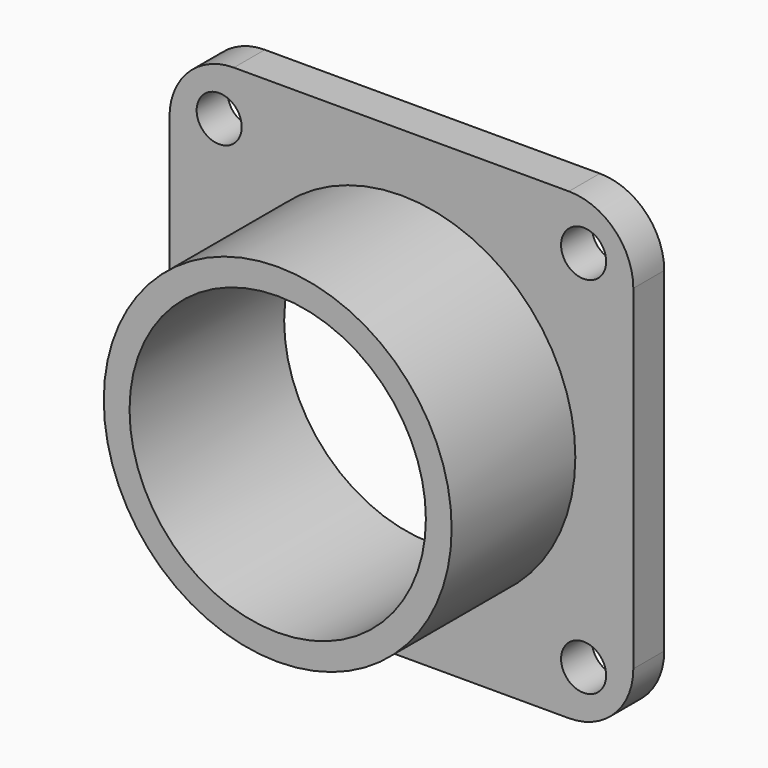
from build123d import *

# Parameters (mm, degrees)
F0_R     = 13.5
F0_R_2   = 11.5
F1_DEPTH = 15
F0_W     = 36
F0_H     = 36
F0_R_3   = 1.75
F2_DEPTH = 3
F3_R     = 5


with BuildPart() as f1:
    # F0 (on Front) → F1 (new body)
    with BuildSketch(Plane.XZ):
        Circle(F0_R)
        Circle(F0_R_2, mode=Mode.SUBTRACT)
    extrude(amount=F1_DEPTH)

    # F0 (on Front) → F2 (join)
    with BuildSketch(Plane.XZ):
        Rectangle(F0_W, F0_H)
        with Locations((-14.142136, -14.142136)):
            Circle(F0_R_3, mode=Mode.SUBTRACT)
        with Locations((14.142136, -14.142136)):
            Circle(F0_R_3, mode=Mode.SUBTRACT)
        with Locations((-14.142136, 14.142136)):
            Circle(F0_R_3, mode=Mode.SUBTRACT)
        Circle(F0_R, mode=Mode.SUBTRACT)
        with Locations((14.142136, 14.142136)):
            Circle(F0_R_3, mode=Mode.SUBTRACT)
    extrude(amount=F2_DEPTH)

    # F3
    f3_edges = [f1.edges().sort_by_distance(p)[0] for p in [
        (18, -1.5, -18),
        (18, -1.5, 18),
        (-18, -1.5, 18),
        (-18, -1.5, -18),
    ]]
    fillet(f3_edges, radius=F3_R)


solid = f1.part
